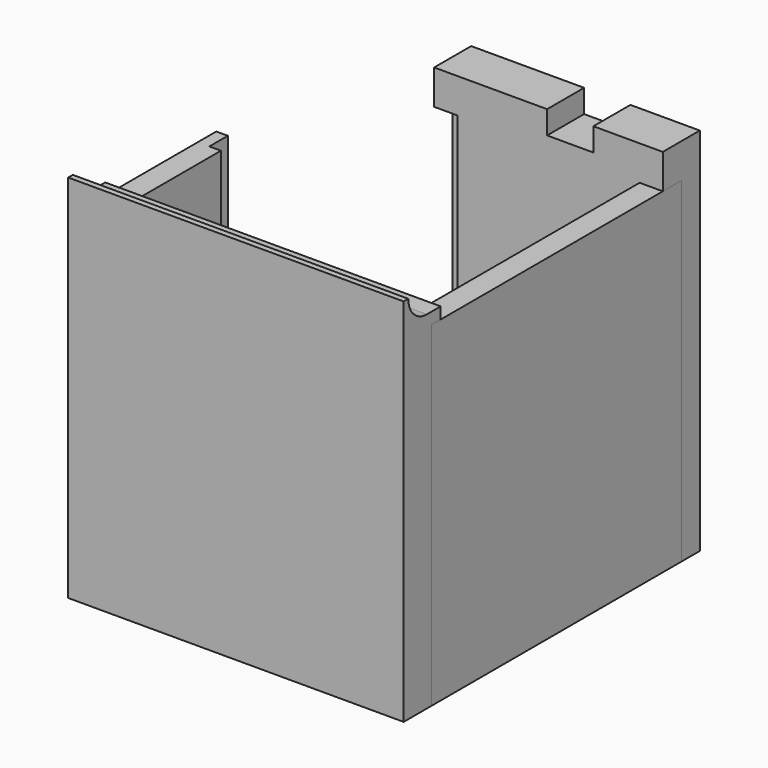
from build123d import *

# Parameters (mm, degrees)
F1_W      = 62.7456063252
F1_H      = 101.6
F2_DEPTH  = 12.7
F3_W      = 6.35
F3_H      = 82.55
F3_H_2    = 3.175
F3_W_2    = 50.0456063252
F3_H_3    = 6.35
F4_DEPTH  = 6.35
F6_DEPTH  = 85.725
F7_W      = 92.075
F7_H      = 101.6
F8_DEPTH  = 9.525
F9_W      = 79.375
F9_H      = 6.35
F10_DEPTH = 3.175
F12_DEPTH = 92.075
F13_W     = 12.7
F13_H     = 6.35
F14_DEPTH = 12.7
F15_W     = 6.35
F15_H     = 41.275
F16_DEPTH = 92.075
F17_W     = 6.35
F17_H     = 3.175
F17_H_2   = 82.55
F17_W_2   = 34.925
F17_H_3   = 6.35
F18_DEPTH = 3.175


with BuildPart() as f2:
    # F1 (on Front) → F2 (new body)
    with BuildSketch(Plane.XZ):
        with Locations((-31.3728031626, 50.8)):
            Rectangle(F1_W, F1_H)
    extrude(amount=F2_DEPTH)

    # F3 (on face) → F4 (cut)
    with BuildSketch(Plane.XZ.offset(12.7)):
        with Locations((-3.175, 50.8)):
            Rectangle(F3_W, F3_H)
        with Locations((-3.175, 7.9375)):
            Rectangle(F3_W, F3_H_2)
        with Locations((-31.3728031626, 7.9375)):
            Rectangle(F3_W_2, F3_H_2)
        with Locations((-3.175, 3.175)):
            Rectangle(F3_W, F3_H_3)
        with Locations((-59.5706063252, 7.9375)):
            Rectangle(F3_W, F3_H_2)
        with Locations((-59.5706063252, 50.8)):
            Rectangle(F3_W, F3_H)
        with Locations((-59.5706063252, 3.175)):
            Rectangle(F3_W, F3_H_3)
    extrude(amount=-F4_DEPTH, mode=Mode.SUBTRACT)

    # F13 (on face) → F14 (cut, through all)
    with BuildSketch(Plane.XZ.offset(12.7)):
        with Locations((-25.4, 98.425)):
            Rectangle(F13_W, F13_H)
    extrude(amount=-F14_DEPTH, mode=Mode.SUBTRACT)


with BuildPart() as f6:
    # F5 (on face) → F6 (new body)
    with BuildSketch(Plane.XZ.offset(6.35)):
        Polygon((0, 92.075), (-6.35, 92.075), (-6.35, 9.525), (-3.175, 9.525), (-3.175, 6.35), (-6.35, 6.35), (-6.35, 0), (0, 0), align=None)
    extrude(amount=F6_DEPTH)


with BuildPart() as f8:
    # F7 (on face) → F8 (new body)
    with BuildSketch(Plane.XZ.offset(92.075)):
        with Locations((-46.0375, 50.8)):
            Rectangle(F7_W, F7_H)
    extrude(amount=F8_DEPTH)

    # F9 (on face) → F10 (join)
    with BuildSketch(Plane(origin=(0, -92.075, 0), x_dir=(-1, 0, 0), z_dir=(0, 1, 0))):
        with Locations((46.0375, 3.175)):
            Rectangle(F9_W, F9_H)
        Polygon((92.075, 101.6), (0, 101.6), (0, 92.075), (6.35, 92.075), (6.35, 9.525), (85.725, 9.525), (85.725, 92.075), (92.075, 92.075), align=None)
    extrude(amount=F10_DEPTH)

    # F11 (on face) → F12 (cut, through all)
    with BuildSketch(Plane.YZ):
        with BuildLine():
            Line((-93.6625, 101.6), (-100.0125, 101.6))
            ThreePointArc((-100.0125, 101.6), (-98.1526280605, 97.1098719395), (-93.6625, 95.25))
            Line((-93.6625, 95.25), (-88.9, 95.25))
            Line((-88.9, 95.25), (-88.9, 101.6))
            Line((-88.9, 101.6), (-93.6625, 101.6))
        make_face()
    extrude(amount=-F12_DEPTH, mode=Mode.SUBTRACT)


with BuildPart() as f16:
    # F15 (on Top) → F16 (new body, through all)
    with BuildSketch(Plane.XY):
        with Locations((-88.9, -71.4375)):
            Rectangle(F15_W, F15_H)
    extrude(amount=F16_DEPTH)

    # F17 (on face) → F18 (cut)
    with BuildSketch(Plane.YZ.offset(-85.725)):
        with Locations((-53.975, 7.9375)):
            Rectangle(F17_W, F17_H)
        with Locations((-53.975, 50.8)):
            Rectangle(F17_W, F17_H_2)
        with Locations((-74.6125, 7.9375)):
            Rectangle(F17_W_2, F17_H)
        with Locations((-53.975, 3.175)):
            Rectangle(F17_W, F17_H_3)
    extrude(amount=-F18_DEPTH, mode=Mode.SUBTRACT)


solid = Compound([f2.part, f6.part, f8.part, f16.part])
